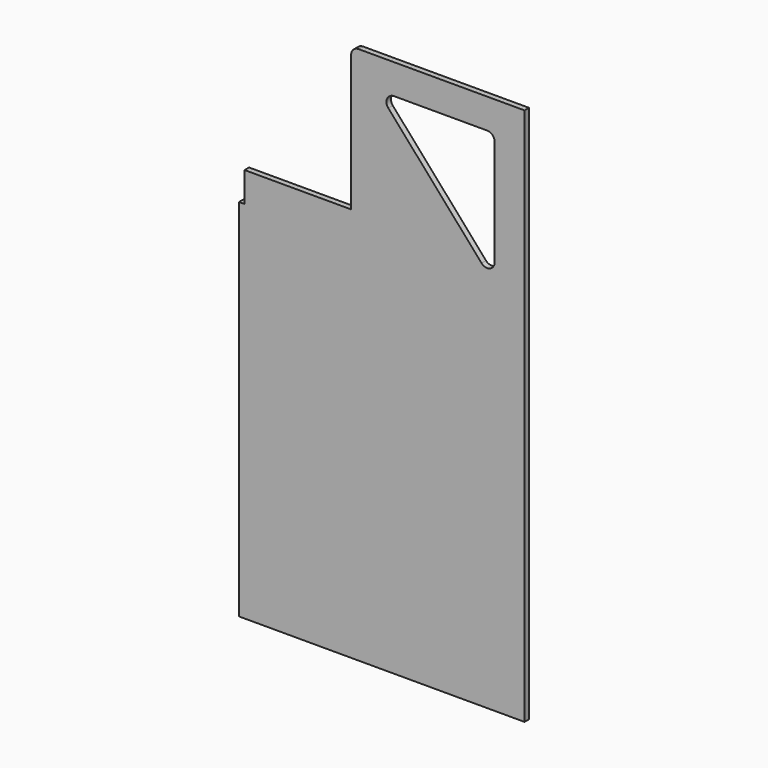
from build123d import *

# Parameters (mm, degrees)
F1_DEPTH = 19.05
F2_R     = 25.4


with BuildPart() as f1:
    # F0 (on Front) → F1 (new body)
    with BuildSketch(Plane.XZ):
        Polygon((-970, 0), (0, 0), (0, 1158.24), (0, 1828.8), (-589, 1828.8), (-589, 1341.12), (-950.95, 1341.12), (-950.95, 1239.52), (-970, 1239.52), align=None)
        Polygon((-101.6, 1273.908754), (-499.757576, 1727.2), (-101.6, 1727.2), align=None, mode=Mode.SUBTRACT)
    extrude(amount=F1_DEPTH)

    # F2
    f2_edges = [f1.edges().sort_by_distance(p)[0] for p in [
        (-499.757576, -9.525, 1727.2),
        (-101.6, -9.525, 1727.2),
        (-101.6, -9.525, 1273.908754),
        (-589, -9.525, 1828.8),
    ]]
    fillet(f2_edges, radius=F2_R)


solid = f1.part
